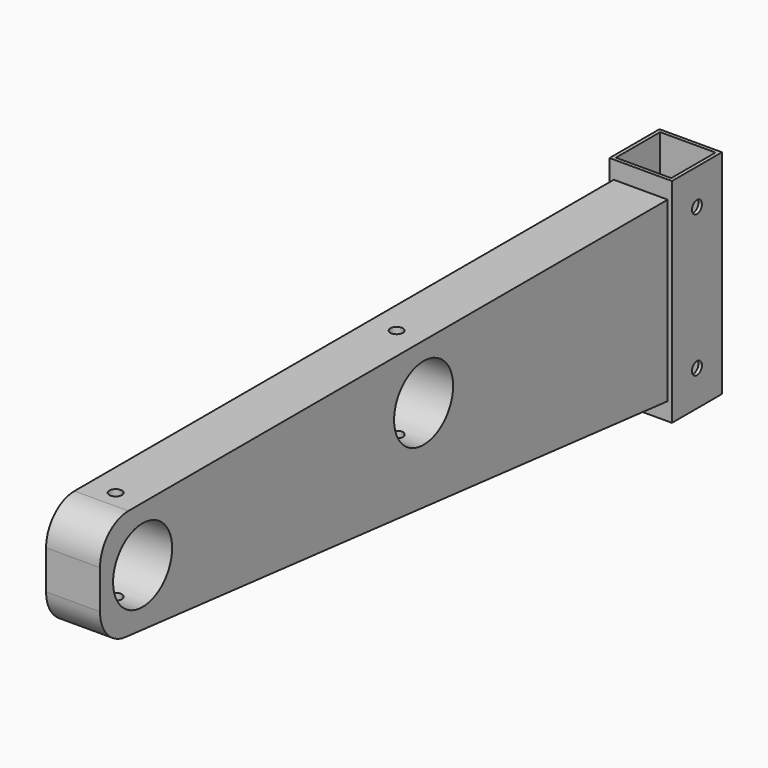
from build123d import *

# Parameters (mm, degrees)
F0_W     = 44
F0_H     = 44
F0_W_2   = 39
F0_H_2   = 39
F1_DEPTH = 150
F3_D     = 8.8
F5_DEPTH = 19
F6_R     = 25
F8_D     = 52
F10_D    = 8.8


with BuildPart() as f1:
    # F0 (on Top) → F1 (new body)
    with BuildSketch(Plane.XY):
        Rectangle(F0_W, F0_H)
        Rectangle(F0_W_2, F0_H_2, mode=Mode.SUBTRACT)
    extrude(amount=F1_DEPTH)

    # F3 (through all)
    with Locations(Plane(origin=(-22, 0, 0), x_dir=(0, -1, 0), z_dir=(-1, 0, 0))):
        with Locations((0, 125), (0, 25)):
            Hole(F3_D / 2)

    # F4 (on Right) → F5 (join, symmetric)
    with BuildSketch(Plane.YZ):
        Polygon((-22, 12.5), (-22, 137.5), (-522, 137.5), (-522, 62.5), align=None)
    extrude(amount=F5_DEPTH, both=True)

    # F6
    f6_edges = [f1.edges().sort_by_distance(p)[0] for p in [
        (0, -522, 137.5),
        (0, -522, 62.5),
    ]]
    fillet(f6_edges, radius=F6_R)

    # F8 (through all)
    with Locations(Plane(origin=(-19, 0, 0), x_dir=(0, -1, 0), z_dir=(-1, 0, 0))):
        with Locations((484.5, 98.8123445264), (237, 98.8123445264)):
            Hole(F8_D / 2)

    # F10 (through all)
    with Locations(Plane.XY.offset(137.5)):
        with Locations((0, -237), (0, -484.5)):
            Hole(F10_D / 2)


solid = f1.part
